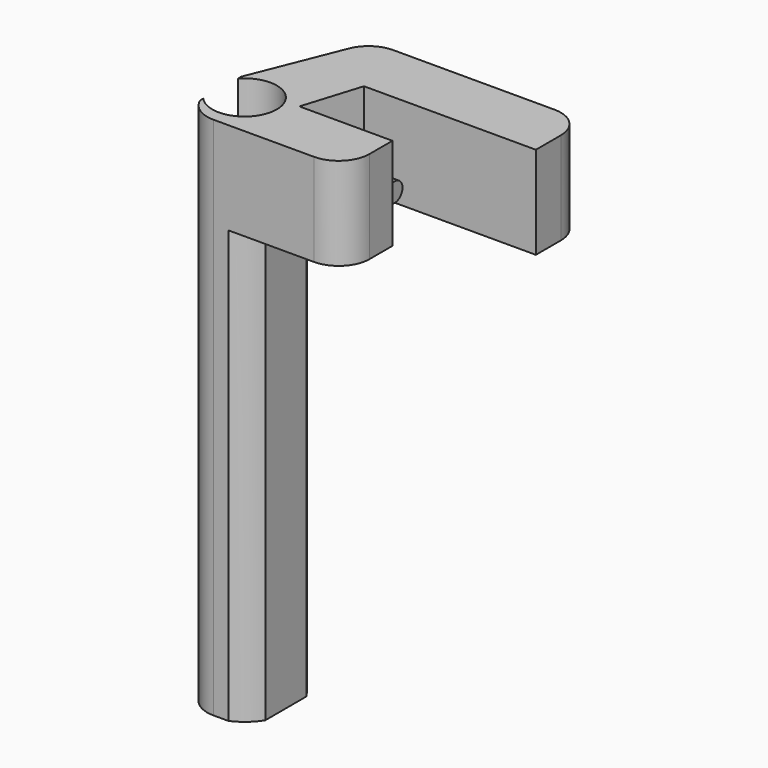
from build123d import *

# Parameters (mm, degrees)
F1_DEPTH      = 15
F2_R          = 1.5314851855
F3_DEPTH      = 12
F4_DEPTH      = 70
F4_DEPTH_BACK = 15
F5_START      = 15
F5_DEPTH      = 10


with BuildPart() as f1:
    # F0 (on Top) → F1 (new body)
    with BuildSketch(Plane.XY):
        with BuildLine():
            Line((-3.7878935624, 0), (0, 0))
            Line((0, 0), (10.080419369, 0))
            ThreePointArc((10.080419369, 0), (13.615953275, 1.4644660941), (15.080419369, 5))
            Line((15.080419369, 5), (15.080419369, 9.6347117797))
            Line((15.080419369, 9.6347117797), (0, 9.6347117797))
            Line((0, 9.6347117797), (2.9323033523, 19.0599747002))
            Line((2.9323033523, 19.0599747002), (30.7891890407, 19.0599747002))
            Line((30.7891890407, 19.0599747002), (30.7891890407, 24.113586992))
            ThreePointArc((30.7891890407, 24.113586992), (29.3247229466, 27.649120898), (25.7891890407, 29.113586992))
            Line((25.7891890407, 29.113586992), (-0.3710855943, 29.113586992))
            ThreePointArc((-0.3710855943, 29.113586992), (-3.1742094006, 28.2539368476), (-5.0134508929, 25.9705857625))
            Line((-5.0134508929, 25.9705857625), (-9.5392790792, 14.6563360963))
            ThreePointArc((-9.5392790792, 14.6563360963), (-4.3326845259, 14.6456991486), (-0.2697541602, 11.3897297337))
            Line((-0.2697541602, 11.3897297337), (-0.2609815599, 3.0549731831))
            ThreePointArc((-0.2609815599, 3.0549731831), (-1.7930786348, 1.2603868413), (-3.7878935624, 0))
        make_face()
    extrude(amount=F1_DEPTH)

    # F2 (on Right) → F3 (join)
    with BuildSketch(Plane.YZ):
        with Locations((13.9912003651, 4.9216861258)):
            Circle(F2_R)
    extrude(amount=F3_DEPTH)

    # F0 (on Top) → F4 (join, two sides)
    with BuildSketch(Plane.XY) as f4_sk:
        with BuildLine():
            Line((-6.2310085321, 0), (-3.7878935624, 0))
            ThreePointArc((-3.7878935624, 0), (-1.7930786348, 1.2603868413), (-0.2609815599, 3.0549731831))
            Line((-0.2609815599, 3.0549731831), (-0.2697541602, 11.3897297337))
            ThreePointArc((-0.2697541602, 11.3897297337), (-4.3326845259, 14.6456991486), (-9.5392790792, 14.6563360963))
            Line((-9.5392790792, 14.6563360963), (-10.8459586275, 11.3897298455))
            Line((-10.8459586275, 11.3897298455), (-10.845246293, 10.7129482743))
            ThreePointArc((-10.845246293, 10.7129482743), (-5.0783751094, 12.1030419278), (-1.7169344136, 7.215314433))
            ThreePointArc((-1.7169344136, 7.215314433), (-5.0732316586, 2.3295608244), (-10.8378749283, 3.7094910741))
            Line((-10.8378749283, 3.7094910741), (-10.8371860272, 3.0549732948))
            ThreePointArc((-10.8371860272, 3.0549732948), (-8.9945991742, 0.8331586588), (-6.2310085321, 0))
        make_face()
    extrude(amount=-F4_DEPTH)
    extrude(f4_sk.sketch, amount=F4_DEPTH_BACK)

    # F0 (on Top) → F5 (cut)
    with BuildSketch(Plane.XY.offset(F5_START)):
        with BuildLine():
            Line((-10.8392332305, 4.9999998882), (-10.8378749283, 3.7094910741))
            ThreePointArc((-10.8378749283, 3.7094910741), (-5.0732316586, 2.3295608244), (-1.7169344136, 7.215314433))
            ThreePointArc((-1.7169344136, 7.215314433), (-5.0783751094, 12.1030419278), (-10.845246293, 10.7129482743))
            Line((-10.845246293, 10.7129482743), (-10.8440068229, 9.5353405923))
            Line((-10.8440068229, 9.5353405923), (-7.9774604405, 9.5353405923))
            Line((-7.9774604405, 9.5353405923), (-7.9774604405, 4.9999998882))
            Line((-7.9774604405, 4.9999998882), (-10.8392332305, 4.9999998882))
        make_face()
        Polygon((-10.8440068229, 9.5353405923), (-10.8392332305, 4.9999998882), (-7.9774604405, 4.9999998882), (-7.9774604405, 9.5353405923), align=None)
    extrude(amount=F5_DEPTH, mode=Mode.SUBTRACT)


solid = f1.part
